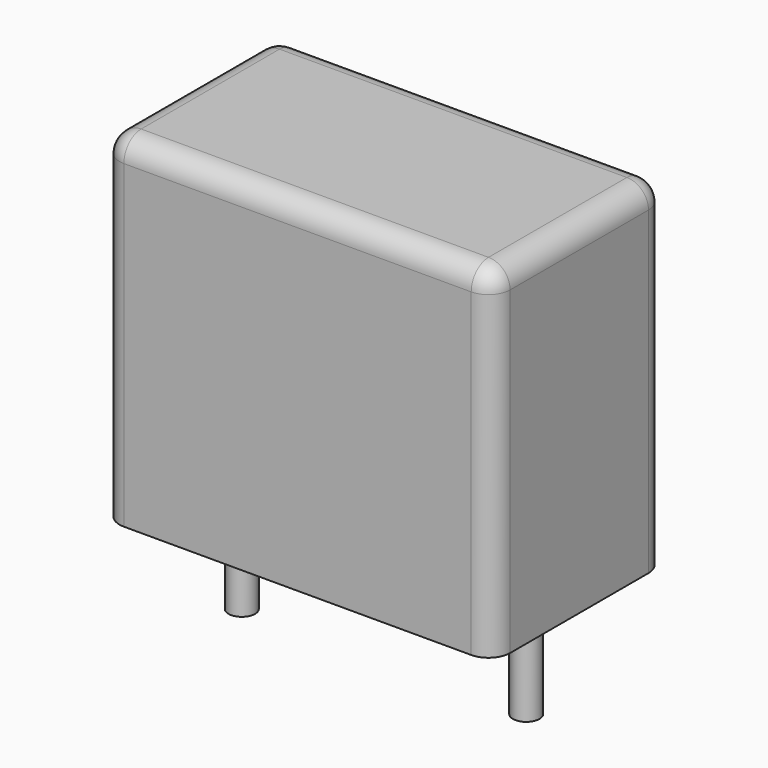
from build123d import *

# Parameters (mm, degrees)
SKETCH_W     = 10.3
SKETCH_H     = 5.7
PAD_DEPTH    = 9
FILLET_R     = 0.57
SKETCH001_R  = 0.35
PAD001_DEPTH = 3.2


with BuildPart() as fillet_body:
    # Sketch → Pad (new body)
    with BuildSketch(Plane.XY.offset(0.1)):
        with Locations((3.75, 0)):
            Rectangle(SKETCH_W, SKETCH_H)
    extrude(amount=PAD_DEPTH)

    # Fillet
    fillet_edges = [fillet_body.edges().sort_by_distance(p)[0] for p in [
        (-1.4, 0, 9.1),
        (-1.4, -2.85, 4.6),
        (3.75, -2.85, 9.1),
        (8.9, -2.85, 4.6),
        (8.9, 0, 9.1),
        (8.9, 2.85, 4.6),
        (3.75, 2.85, 9.1),
        (-1.4, 2.85, 4.6),
    ]]
    fillet(fillet_edges, radius=FILLET_R)


with BuildPart() as pad001:
    # Sketch001 → Pad001 (new body)
    with BuildSketch(Plane.XY.offset(0.5)):
        Circle(SKETCH001_R)
        with Locations((7.5, 0)):
            Circle(SKETCH001_R)
    extrude(amount=-PAD001_DEPTH)


solid = Compound([fillet_body.part, pad001.part])
